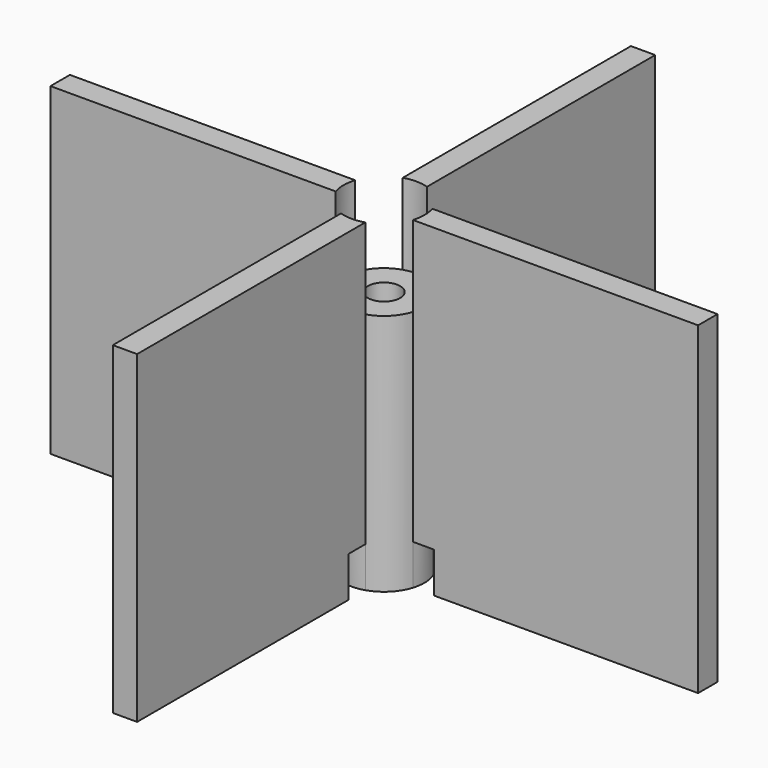
from build123d import *

# Parameters (mm, degrees)
F1_DEPTH = 40
F0_W     = 3
F0_H     = 3
F2_DEPTH = 30
F3_R     = 2
F4_DEPTH = 30
F5_R     = 7.5
F5_R_2   = 5
F6_DEPTH = 5


with BuildPart() as f1:
    # F0 (on Top) → F1 (new body)
    with BuildSketch(Plane.XY):
        with BuildLine():
            ThreePointArc((-4.7696960071, -1.5), (-5, 0), (-4.7696960071, 1.5))
            Line((-4.7696960071, 1.5), (-40, 1.5))
            Line((-40, 1.5), (-40, -1.5))
            Line((-40, -1.5), (-4.7696960071, -1.5))
        make_face()
    extrude(amount=F1_DEPTH)



with BuildPart() as f1b:
    # F0 (on Top) → F1, piece 2 (new body)
    with BuildSketch(Plane.XY):
        with BuildLine():
            ThreePointArc((-1.5, 4.7696960071), (0, 5), (1.5, 4.7696960071))
            Line((1.5, 4.7696960071), (1.5, 40))
            Line((1.5, 40), (-1.5, 40))
            Line((-1.5, 40), (-1.5, 4.7696960071))
        make_face()
    extrude(amount=F1_DEPTH)


with BuildPart() as f1c:
    # F0 (on Top) → F1, piece 3 (new body)
    with BuildSketch(Plane.XY):
        with BuildLine():
            ThreePointArc((4.7696960071, 1.5), (4.9420886291, 0.7587884964), (5, 0))
            ThreePointArc((5, 0), (4.9420886291, -0.7587884964), (4.7696960071, -1.5))
            Line((4.7696960071, -1.5), (40, -1.5))
            Line((40, -1.5), (40, 1.5))
            Line((40, 1.5), (4.7696960071, 1.5))
        make_face()
    extrude(amount=F1_DEPTH)


with BuildPart() as f1d:
    # F0 (on Top) → F1, piece 4 (new body)
    with BuildSketch(Plane.XY):
        with BuildLine():
            Line((1.5, -40), (1.5, -4.7696960071))
            ThreePointArc((1.5, -4.7696960071), (0, -5), (-1.5, -4.7696960071))
            Line((-1.5, -4.7696960071), (-1.5, -40))
            Line((-1.5, -40), (1.5, -40))
        make_face()
    extrude(amount=F1_DEPTH)


with BuildPart() as f1_1:
    add(f1.part)

    add(f1b.part)  # F2 merges F1b

    add(f1c.part)  # F2 merges F1c

    add(f1d.part)  # F2 merges F1d
    # F0 (on Top) → F2 (join)
    with BuildSketch(Plane.XY):
        with BuildLine():
            Line((-1.5, 1.5), (-1.5, 4.7696960071))
            ThreePointArc((-1.5, 4.7696960071), (-3.5355339059, 3.5355339059), (-4.7696960071, 1.5))
            Line((-4.7696960071, 1.5), (-1.5, 1.5))
        make_face()
        with BuildLine():
            Line((1.5, 1.5), (4.7696960071, 1.5))
            ThreePointArc((4.7696960071, 1.5), (3.5355339059, 3.5355339059), (1.5, 4.7696960071))
            Line((1.5, 4.7696960071), (1.5, 1.5))
        make_face()
        with BuildLine():
            ThreePointArc((1.5, -4.7696960071), (3.5355339059, -3.5355339059), (4.7696960071, -1.5))
            Line((4.7696960071, -1.5), (1.5, -1.5))
            Line((1.5, -1.5), (1.5, -4.7696960071))
        make_face()
        with BuildLine():
            ThreePointArc((-4.7696960071, -1.5), (-3.5355339059, -3.5355339059), (-1.5, -4.7696960071))
            Line((-1.5, -4.7696960071), (-1.5, -1.5))
            Line((-1.5, -1.5), (-4.7696960071, -1.5))
        make_face()
        with BuildLine():
            ThreePointArc((4.7696960071, -1.5), (4.9420886291, -0.7587884964), (5, 0))
            ThreePointArc((5, 0), (4.9420886291, 0.7587884964), (4.7696960071, 1.5))
            Line((4.7696960071, 1.5), (1.5, 1.5))
            Line((1.5, 1.5), (1.5, -1.5))
            Line((1.5, -1.5), (4.7696960071, -1.5))
        make_face()
        with BuildLine():
            Line((1.5, 1.5), (1.5, 4.7696960071))
            ThreePointArc((1.5, 4.7696960071), (0, 5), (-1.5, 4.7696960071))
            Line((-1.5, 4.7696960071), (-1.5, 1.5))
            Line((-1.5, 1.5), (1.5, 1.5))
        make_face()
        with BuildLine():
            Line((-1.5, -1.5), (-1.5, 1.5))
            Line((-1.5, 1.5), (-4.7696960071, 1.5))
            ThreePointArc((-4.7696960071, 1.5), (-5, 0), (-4.7696960071, -1.5))
            Line((-4.7696960071, -1.5), (-1.5, -1.5))
        make_face()
        Rectangle(F0_W, F0_H)
        with BuildLine():
            ThreePointArc((-1.5, -4.7696960071), (0, -5), (1.5, -4.7696960071))
            Line((1.5, -4.7696960071), (1.5, -1.5))
            Line((1.5, -1.5), (-1.5, -1.5))
            Line((-1.5, -1.5), (-1.5, -4.7696960071))
        make_face()
    extrude(amount=F2_DEPTH)

    # F3 (on face) → F4 (cut)
    with BuildSketch(Plane.XY.offset(30)):
        Circle(F3_R)
    extrude(amount=-F4_DEPTH, mode=Mode.SUBTRACT)

    # F5 (on face) → F6 (cut)
    with BuildSketch(Plane(origin=(0, 0, 0), x_dir=(1, 0, 0), z_dir=(0, 0, -1))):
        Circle(F5_R)
        Circle(F5_R_2, mode=Mode.SUBTRACT)
    extrude(amount=-F6_DEPTH, mode=Mode.SUBTRACT)


solid = f1_1.part
